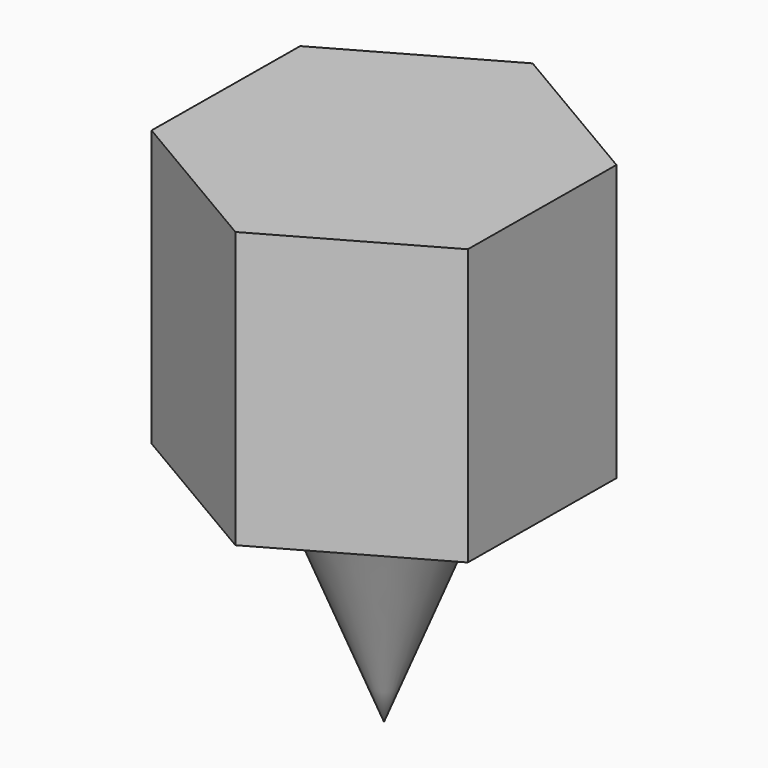
from build123d import *

# Parameters (mm, degrees)
F1_DEPTH = 60


with BuildPart() as f1:
    # F0 (on Top) → F1 (new body)
    with BuildSketch(Plane.XY):
        Polygon((-0.338009, -39.998572), (34.470775, -20.29201), (34.808784, 19.706562), (0.338009, 39.998572), (-34.470775, 20.29201), (-34.808784, -19.706562), align=None)
    extrude(amount=F1_DEPTH)

    # F2 (on Right) → F3 (revolve)
    with BuildSketch(Plane.YZ):
        Polygon((20, 0), (0, 0), (0, -50), align=None)
    revolve(axis=Axis((0, 0, -25), (0, 0, -1)))


solid = f1.part
